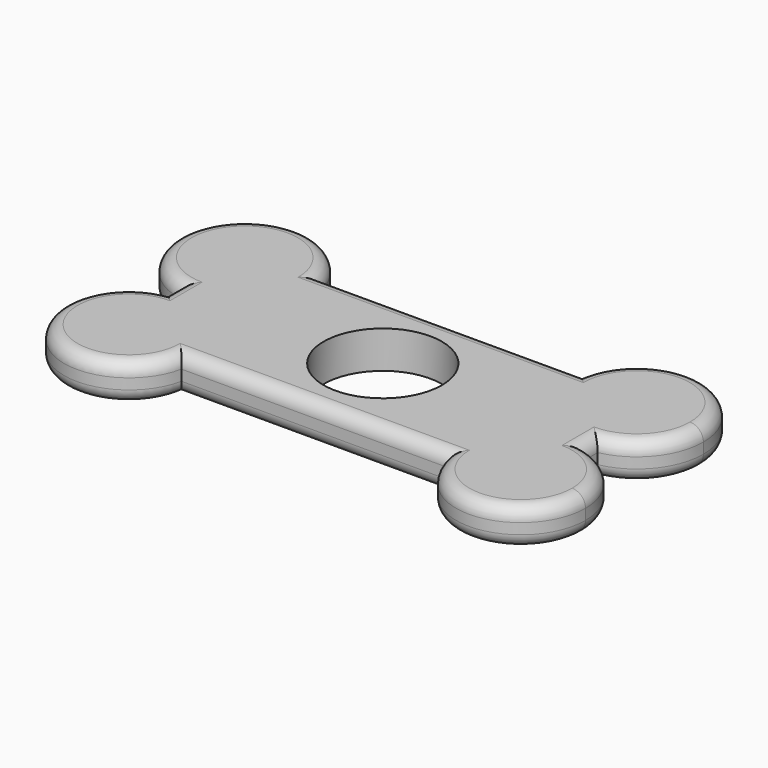
from build123d import *

# Parameters (mm, degrees)
F0_R     = 11.075
F1_DEPTH = 7
F2_R     = 2.5


with BuildPart() as f1:
    # F0 (on Top) → F1 (new body)
    with BuildSketch(Plane.XY):
        with BuildLine():
            ThreePointArc((-24.254456, 16.050001), (-45.340739, 22.388836), (-39.001904, 1.302553))
            Line((-39.001904, 1.302553), (-39.001904, 16.050001))
            Line((-39.001904, 16.050001), (-24.254456, 16.050001))
        make_face()
        with BuildLine():
            Line((-39.001904, 16.050001), (-39.001904, 1.302553))
            ThreePointArc((-39.001904, 1.302553), (-28.59621, 3.867543), (-24.001904, 13.550001))
            ThreePointArc((-24.001904, 13.550001), (-24.065203, 14.806363), (-24.254456, 16.050001))
            Line((-24.254456, 16.050001), (-39.001904, 16.050001))
        make_face()
        with BuildLine():
            Line((-24.632326, -16.099999), (25.078419, -16.099999))
            ThreePointArc((25.078419, -16.099999), (28.370793, -5.022793), (39.447998, -1.73042))
            Line((39.447998, -1.73042), (39.447998, 1.302553))
            ThreePointArc((39.447998, 1.302553), (28.109163, 4.711167), (24.700549, 16.050001))
            Line((24.700549, 16.050001), (-24.254456, 16.050001))
            ThreePointArc((-24.254456, 16.050001), (-24.065203, 14.806363), (-24.001904, 13.550001))
            ThreePointArc((-24.001904, 13.550001), (-28.59621, 3.867543), (-39.001904, 1.302553))
            Line((-39.001904, 1.302553), (-39.001904, -1.73042))
            ThreePointArc((-39.001904, -1.73042), (-28.859526, -4.180288), (-24.371904, -13.599999))
            ThreePointArc((-24.371904, -13.599999), (-24.437185, -14.856762), (-24.632326, -16.099999))
        make_face()
        with Locations((0.222998, -0.024999)):
            Circle(F0_R, mode=Mode.SUBTRACT)
        with BuildLine():
            ThreePointArc((24.700549, 16.050001), (28.109163, 4.711167), (39.447998, 1.302553))
            Line((39.447998, 1.302553), (39.447998, 16.050001))
            Line((39.447998, 16.050001), (24.700549, 16.050001))
        make_face()
        with BuildLine():
            Line((25.078419, -16.099999), (39.447998, -16.099999))
            Line((39.447998, -16.099999), (39.447998, -1.73042))
            ThreePointArc((39.447998, -1.73042), (28.370793, -5.022793), (25.078419, -16.099999))
        make_face()
        with BuildLine():
            Line((39.447998, 16.050001), (39.447998, 1.302553))
            ThreePointArc((39.447998, 1.302553), (46.630456, 5.644307), (49.447998, 13.550001))
            ThreePointArc((49.447998, 13.550001), (38.20436, 25.986703), (24.700549, 16.050001))
            Line((24.700549, 16.050001), (39.447998, 16.050001))
        make_face()
        with BuildLine():
            Line((39.447998, -1.73042), (39.447998, -16.099999))
            Line((39.447998, -16.099999), (25.078419, -16.099999))
            ThreePointArc((25.078419, -16.099999), (38.204762, -25.664718), (49.077998, -13.599999))
            ThreePointArc((49.077998, -13.599999), (46.367709, -5.95762), (39.447998, -1.73042))
        make_face()
        with BuildLine():
            ThreePointArc((-39.001904, -1.73042), (-45.07911, -22.177204), (-24.632326, -16.099999))
            Line((-24.632326, -16.099999), (-39.001904, -16.099999))
            Line((-39.001904, -16.099999), (-39.001904, -1.73042))
        make_face()
        with BuildLine():
            Line((-39.001904, -16.099999), (-24.632326, -16.099999))
            ThreePointArc((-24.632326, -16.099999), (-24.437185, -14.856762), (-24.371904, -13.599999))
            ThreePointArc((-24.371904, -13.599999), (-28.859526, -4.180288), (-39.001904, -1.73042))
            Line((-39.001904, -1.73042), (-39.001904, -16.099999))
        make_face()
    extrude(amount=F1_DEPTH)

    # F2
    f2_edges = [f1.edges().sort_by_distance(p)[0] for p in [
        (-45.340739, 22.388836, 7),
        (0.223047, 16.050001, 7),
        (45.786833, 22.388836, 7),
        (39.447998, -0.213934, 7),
        (45.525203, -22.177204, 7),
        (0.223047, -16.099999, 7),
        (-45.07911, -22.177204, 7),
        (-39.001904, -0.213934, 7),
        (-45.07911, -22.177204, 0),
        (0.223047, -16.099999, 0),
        (45.525203, -22.177204, 0),
        (39.447998, -0.213934, 0),
        (45.786833, 22.388836, 0),
        (0.223047, 16.050001, 0),
        (-45.340739, 22.388836, 0),
        (-39.001904, -0.213934, 0),
    ]]
    fillet(f2_edges, radius=F2_R)


solid = f1.part
